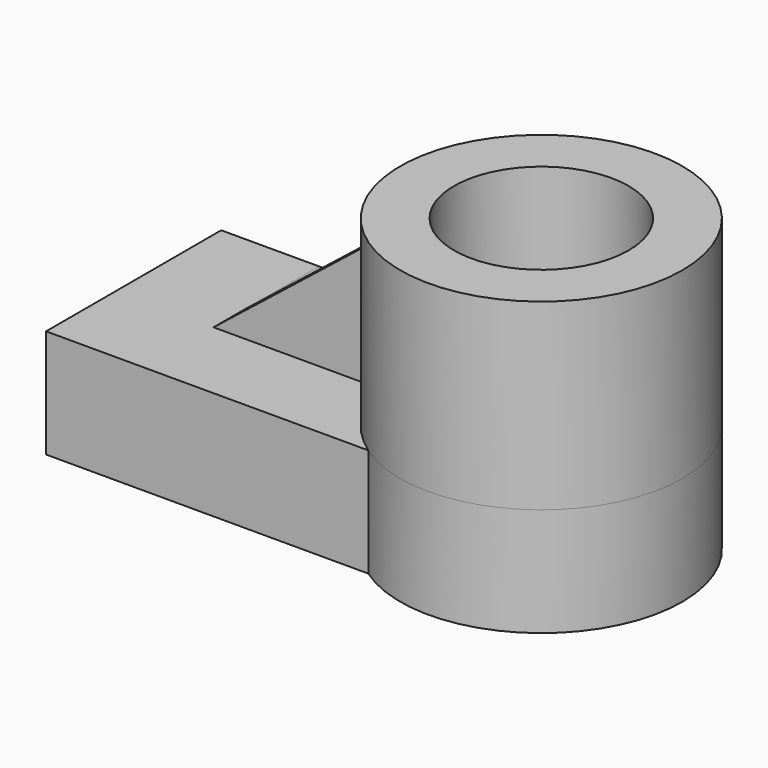
from build123d import *

# Parameters (mm, degrees)
F0_W     = 95.8645157516
F0_H     = 51.2506449595
F1_DEPTH = 25.4
F2_R     = 33.0176630578
F2_R_2   = 20.4366091001
F3_DEPTH = 42.926
F4_DEPTH = 25.4
F5_DEPTH = 26.67
F7_DEPTH = 30.988
F9_DEPTH = 69.596


with BuildPart() as f1:
    # F0 (on Top) → F1 (new body)
    with BuildSketch(Plane.XY):
        with Locations((0.4608873278, 12.4439517967)):
            Rectangle(F0_W, F0_H)
    extrude(amount=F1_DEPTH)

    # F2 (on face) → F3 (join)
    with BuildSketch(Plane.XY.offset(25.4)):
        with Locations((46.7587672174, 13.9568671584)):
            Circle(F2_R)
        with Locations((46.7587672174, 13.9568671584)):
            Circle(F2_R_2, mode=Mode.SUBTRACT)
    extrude(amount=F3_DEPTH)

    # F4 (add): a face of the model
    f4_faces = [f1.faces().sort_by_distance(p)[0] for p in [
        (61.6753891644, -14.5284210857, 25.4),
    ]]
    extrude(f4_faces, amount=F4_DEPTH)

    # F5 (cut): a face of the model
    f5_faces = [f1.faces().sort_by_distance(p)[0] for p in [
        (38.9613968277, 13.9568671584, 25.4),
    ]]
    extrude(f5_faces, amount=-F5_DEPTH, mode=Mode.SUBTRACT)

    # F6 (on face) → F7 (join)
    with BuildSketch(Plane.XY.offset(25.4)):
        with BuildLine():
            Line((-24.5569236669, 16.9090367761), (-24.5569236669, 7.1940356866))
            Line((-24.5569236669, 7.1940356866), (14.4411221256, 7.1940356866))
            ThreePointArc((14.4411221256, 7.1940356866), (13.797347404, 12.0305033086), (13.8733484372, 16.9090367761))
            Line((13.8733484372, 16.9090367761), (-24.5569236669, 16.9090367761))
        make_face()
    extrude(amount=F7_DEPTH)

    # F8 (on face) → F9 (cut)
    with BuildSketch(Plane.XZ.offset(-7.1940356866)):
        Polygon((-24.5569236669, 56.388), (-24.5569236669, 25.4), (14.4411221256, 56.388), align=None)
    extrude(amount=-F9_DEPTH, mode=Mode.SUBTRACT)


solid = f1.part
